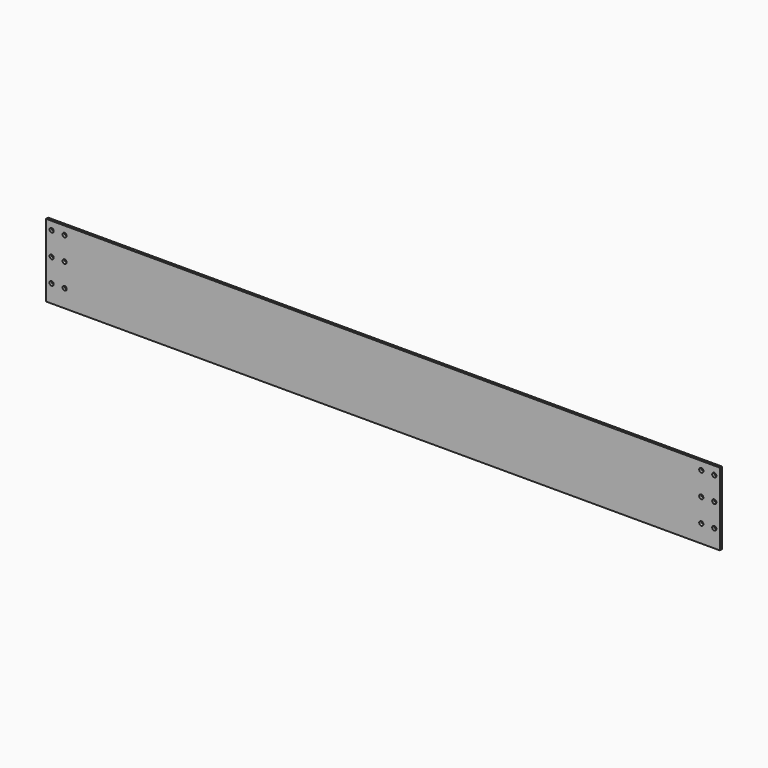
from build123d import *

# Parameters (mm, degrees)
F0_W     = 1619.05
F0_H     = 175
F1_DEPTH = 6.35
F2_R     = 5
F3_DEPTH = 25


with BuildPart() as f1:
    # F0 (on Front) → F1 (new body)
    with BuildSketch(Plane.XZ):
        with Locations((639.564669, 8.86983)):
            Rectangle(F0_W, F0_H)
    extrude(amount=F1_DEPTH)

    # F2 (on face) → F3 (cut)
    with BuildSketch(Plane.XZ.offset(6.35)):
        with Locations((-156.660331, 20.16983)):
            Circle(F2_R)
        with Locations((-156.660331, -36.03017)):
            Circle(F2_R)
        with Locations((-125.460331, 76.36983)):
            Circle(F2_R)
        with Locations((-125.460331, 20.16983)):
            Circle(F2_R)
        with Locations((-125.460331, -36.03017)):
            Circle(F2_R)
        with Locations((-156.660331, 76.36983)):
            Circle(F2_R)
        with Locations((1404.589669, 76.36983)):
            Circle(F2_R)
        with Locations((1435.789669, 76.36983)):
            Circle(F2_R)
        with Locations((1404.589669, 20.16983)):
            Circle(F2_R)
        with Locations((1435.789669, 20.16983)):
            Circle(F2_R)
        with Locations((1435.789669, -36.03017)):
            Circle(F2_R)
        with Locations((1404.589669, -36.03017)):
            Circle(F2_R)
    extrude(amount=-F3_DEPTH, mode=Mode.SUBTRACT)


solid = f1.part
